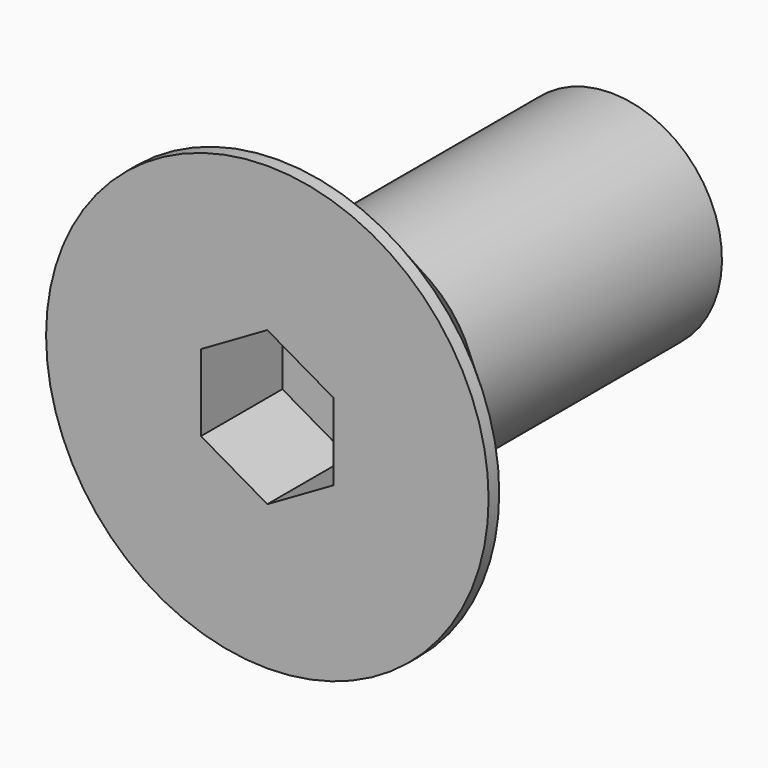
from build123d import *

# Parameters (mm, degrees)
POCKET_DEPTH = 2.3


with BuildPart() as part:
    # Sketch → Revolution (revolve)
    with BuildSketch(Plane.YZ):
        Polygon((0, 0), (0, 5), (0.3, 5), (2.8, 2.5), (9.717098, 2.5), (10, 2.01), (10, 0), align=None)
    revolve(axis=Axis((0, 0, 0), (0, 1, 0)))

    # Sketch001 → Pocket (cut)
    with BuildSketch(Plane(origin=(0, 0, 0), x_dir=(0, 0, -1), z_dir=(0, -1, 0))):
        Polygon((0.866025, 1.5), (-0.866025, 1.5), (-1.732051, 0), (-0.866025, -1.5), (0.866025, -1.5), (1.732051, 0), align=None)
    extrude(amount=-POCKET_DEPTH, mode=Mode.SUBTRACT)


solid = part.part
